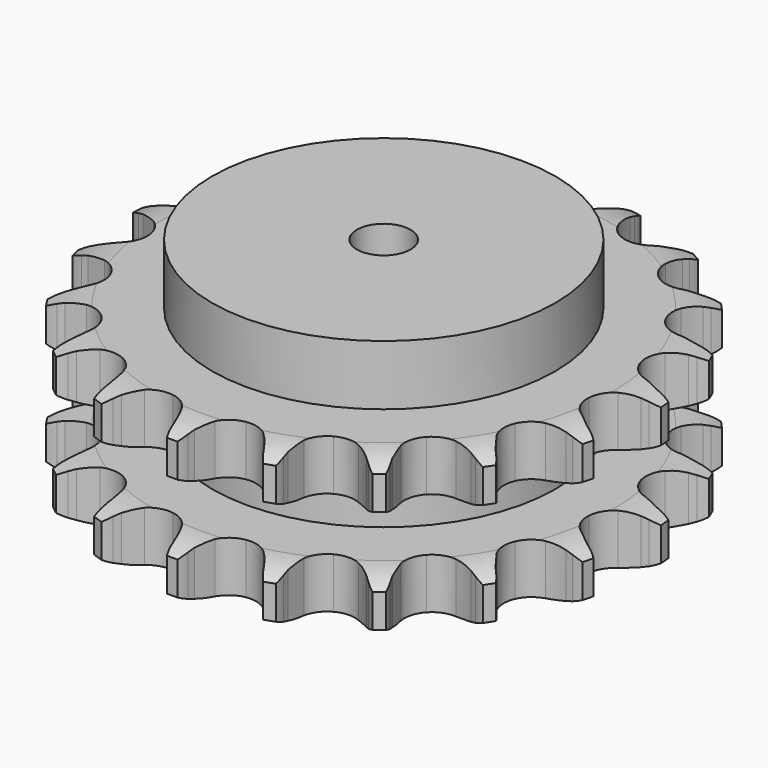
from build123d import *

# Parameters (mm, degrees)
PAD_DEPTH         = 72
SKETCH001_R       = 80
PAD001_DEPTH      = 100
SKETCH002_R       = 12.5
POCKET_DEPTH      = 0.001
POCKET_DEPTH_BACK = 100.001


with BuildPart() as part:
    # Sprocket → Pad (new body)
    with BuildSketch(Plane.XY):
        with BuildLine():
            ThreePointArc((-20.942046, 125.498803), (-17.925185, 122.108284), (-15.704793, 118.150136))
            Line((-15.704793, 118.150136), (-14.486924, 115.295608))
            ThreePointArc((-14.486924, 115.295608), (-12.522014, 111.417263), (-10.066041, 107.829698))
            ThreePointArc((-10.066041, 107.829698), (-5.595993, 104.225196), (0, 102.937319))
            ThreePointArc((0, 102.937319), (5.595993, 104.225196), (10.066041, 107.829698))
            ThreePointArc((10.066041, 107.829698), (12.522014, 111.417263), (14.486924, 115.295608))
            Line((14.486924, 115.295608), (15.704793, 118.150136))
            ThreePointArc((15.704793, 118.150136), (17.925185, 122.108284), (20.942046, 125.498803))
            ThreePointArc((20.942046, 125.498803), (22.694546, 121.312418), (23.509423, 116.847773))
            Line((23.509423, 116.847773), (23.734441, 113.75247))
            ThreePointArc((23.734441, 113.75247), (24.333589, 109.44626), (25.491611, 105.255625))
            ThreePointArc((25.491611, 105.255625), (28.549079, 100.395003), (33.423693, 97.359891))
            ThreePointArc((33.423693, 97.359891), (39.134652, 96.760971), (44.53288, 98.718749))
            Line((44.53288, 98.718749), (51.138405, 104.344678))
            ThreePointArc((51.138405, 104.344678), (52.150772, 105.521248), (53.21715, 106.649098))
            ThreePointArc((53.21715, 106.649098), (56.602444, 109.671822), (60.556743, 111.899061))
            ThreePointArc((60.556743, 111.899061), (60.854971, 107.37047), (60.176027, 102.883142))
            Line((60.176027, 102.883142), (59.38381, 99.882487))
            ThreePointArc((59.38381, 99.882487), (58.552271, 95.615056), (58.286851, 91.275473))
            ThreePointArc((58.286851, 91.275473), (59.600416, 85.685454), (63.22541, 81.232009))
            ThreePointArc((63.22541, 81.232009), (68.432465, 78.811194), (74.173891, 78.910092))
            Line((74.173891, 78.910092), (82.248246, 82.086382))
            ThreePointArc((82.248246, 82.086382), (83.587793, 82.870488), (84.962604, 83.590975))
            ThreePointArc((84.962604, 83.590975), (89.14595, 85.350717), (93.609177, 86.173318))
            ThreePointArc((93.609177, 86.173318), (92.420815, 81.793265), (90.321626, 77.769525))
            Line((90.321626, 77.769525), (88.598022, 75.188687))
            ThreePointArc((88.598022, 75.188687), (86.425905, 71.422477), (84.765806, 67.404206))
            ThreePointArc((84.765806, 67.404206), (84.193122, 61.690556), (86.175673, 56.301377))
            ThreePointArc((86.175673, 56.301377), (90.314558, 52.321001), (95.777011, 50.550303))
            Line((95.777011, 50.550303), (104.445214, 50.932754))
            ThreePointArc((104.445214, 50.932754), (105.966779, 51.239424), (107.501041, 51.474473))
            ThreePointArc((107.501041, 51.474473), (112.029109, 51.780537), (116.517605, 51.10936))
            ThreePointArc((116.517605, 51.10936), (113.97143, 47.35249), (110.679474, 44.228374))
            Line((110.679474, 44.228374), (108.211264, 42.347026))
            ThreePointArc((108.211264, 42.347026), (104.933952, 39.490165), (102.059071, 36.228648))
            ThreePointArc((102.059071, 36.228648), (99.662198, 31.01053), (99.787465, 25.269618))
            ThreePointArc((99.787465, 25.269618), (102.409668, 20.161016), (107.001204, 16.712603))
            Line((107.001204, 16.712603), (115.323923, 14.259771))
            ThreePointArc((115.323923, 14.259771), (116.86262, 14.055774), (118.390072, 13.779913))
            ThreePointArc((118.390072, 13.779913), (122.772175, 12.599133), (126.799542, 10.50691))
            ThreePointArc((126.799542, 10.50691), (123.171472, 7.780339), (119.043485, 5.894392))
            Line((119.043485, 5.894392), (116.098136, 4.916408))
            ThreePointArc((116.098136, 4.916408), (112.070776, 3.27848), (108.292651, 1.127154))
            ThreePointArc((108.292651, 1.127154), (104.331327, -3.029969), (102.585736, -8.500496))
            ThreePointArc((102.585736, -8.500496), (103.407101, -14.183728), (106.630157, -18.936166))
            Line((106.630157, -18.936166), (113.705494, -23.958479))
            ThreePointArc((113.705494, -23.958479), (115.094584, -24.651038), (116.449702, -25.407914))
            ThreePointArc((116.449702, -25.407914), (120.210972, -27.947583), (123.340781, -31.234128))
            ThreePointArc((123.340781, -31.234128), (119.023974, -32.634933), (114.507286, -33.078339))
            Line((114.507286, -33.078339), (111.403973, -33.04698))
            ThreePointArc((111.403973, -33.04698), (107.062993, -33.288478), (102.791043, -34.096485))
            ThreePointArc((102.791043, -34.096485), (97.694539, -36.742123), (94.267251, -41.34945))
            ThreePointArc((94.267251, -41.34945), (93.19877, -46.991445), (94.704078, -52.532908))
            Line((94.704078, -52.532908), (99.765312, -59.580456))
            ThreePointArc((99.765312, -59.580456), (100.854263, -60.686527), (101.890199, -61.842399))
            ThreePointArc((101.890199, -61.842399), (104.623045, -65.465745), (106.516132, -69.590462))
            ThreePointArc((106.516132, -69.590462), (101.978381, -69.513703), (97.562447, -68.466518))
            Line((97.562447, -68.466518), (94.637462, -67.429214))
            ThreePointArc((94.637462, -67.429214), (90.453274, -66.248114), (86.150431, -65.62524))
            ThreePointArc((86.150431, -65.62524), (80.471031, -66.472699), (75.733447, -69.717549))
            ThreePointArc((75.733447, -69.717549), (72.890906, -74.70691), (72.515343, -80.436894))
            Line((72.515343, -80.436894), (75.014009, -88.745967))
            ThreePointArc((75.014009, -88.745967), (75.684818, -90.145689), (76.289313, -91.575301))
            ThreePointArc((76.289313, -91.575301), (77.697587, -95.889677), (78.148808, -100.405591))
            ThreePointArc((78.148808, -100.405591), (73.881849, -98.859586), (70.045202, -96.435288))
            Line((70.045202, -96.435288), (67.615513, -94.504447))
            ThreePointArc((67.615513, -94.504447), (64.041538, -92.028738), (60.174082, -90.042483))
            ThreePointArc((60.174082, -90.042483), (54.527239, -88.999926), (48.992749, -90.53067))
            ThreePointArc((48.992749, -90.53067), (44.684182, -94.326722), (42.468445, -99.624294))
            Line((42.468445, -99.624294), (42.133775, -108.294474))
            ThreePointArc((42.133775, -108.294474), (42.313748, -109.836167), (42.421296, -111.384598))
            ThreePointArc((42.421296, -111.384598), (42.35239, -115.922475), (41.312848, -120.340216))
            ThreePointArc((41.312848, -120.340216), (37.779071, -117.492498), (34.937473, -113.953798))
            Line((34.937473, -113.953798), (33.266374, -111.338657))
            ThreePointArc((33.266374, -111.338657), (30.689909, -107.836621), (27.676938, -104.702225))
            ThreePointArc((27.676938, -104.702225), (22.674574, -101.88263), (16.942926, -101.533388))
            ThreePointArc((16.942926, -101.533388), (11.635233, -103.72477), (7.819432, -108.015857))
            Line((7.819432, -108.015857), (4.687692, -116.107595))
            ThreePointArc((4.687692, -116.107595), (4.357328, -117.624192), (3.956273, -119.123646))
            ThreePointArc((3.956273, -119.123646), (2.417655, -123.393274), (0, -127.234111))
            ThreePointArc((0, -127.234111), (-2.417655, -123.393274), (-3.956273, -119.123646))
            Line((-3.956273, -119.123646), (-4.687692, -116.107595))
            ThreePointArc((-4.687692, -116.107595), (-5.987449, -111.958732), (-7.819432, -108.015857))
            ThreePointArc((-7.819432, -108.015857), (-11.635233, -103.72477), (-16.942926, -101.533388))
            ThreePointArc((-16.942926, -101.533388), (-22.674574, -101.88263), (-27.676938, -104.702225))
            Line((-27.676938, -104.702225), (-33.266374, -111.338657))
            ThreePointArc((-33.266374, -111.338657), (-34.071277, -112.665811), (-34.937473, -113.953798))
            ThreePointArc((-34.937473, -113.953798), (-37.779071, -117.492498), (-41.312848, -120.340216))
            ThreePointArc((-41.312848, -120.340216), (-42.35239, -115.922475), (-42.421296, -111.384598))
            Line((-42.421296, -111.384598), (-42.133775, -108.294474))
            ThreePointArc((-42.133775, -108.294474), (-42.015973, -103.948378), (-42.468445, -99.624294))
            ThreePointArc((-42.468445, -99.624294), (-44.684182, -94.326722), (-48.992749, -90.53067))
            ThreePointArc((-48.992749, -90.53067), (-54.527239, -88.999926), (-60.174082, -90.042483))
            Line((-60.174082, -90.042483), (-67.615513, -94.504447))
            ThreePointArc((-67.615513, -94.504447), (-68.80773, -95.498341), (-70.045202, -96.435288))
            ThreePointArc((-70.045202, -96.435288), (-73.881849, -98.859586), (-78.148808, -100.405591))
            ThreePointArc((-78.148808, -100.405591), (-77.697587, -95.889677), (-76.289313, -91.575301))
            Line((-76.289313, -91.575301), (-75.014009, -88.745967))
            ThreePointArc((-75.014009, -88.745967), (-73.491415, -84.673604), (-72.515343, -80.436894))
            ThreePointArc((-72.515343, -80.436894), (-72.890906, -74.70691), (-75.733447, -69.717549))
            ThreePointArc((-75.733447, -69.717549), (-80.471031, -66.472699), (-86.150431, -65.62524))
            Line((-86.150431, -65.62524), (-94.637462, -67.429214))
            ThreePointArc((-94.637462, -67.429214), (-96.087798, -67.982144), (-97.562447, -68.466518))
            ThreePointArc((-97.562447, -68.466518), (-101.978381, -69.513703), (-106.516132, -69.590462))
            ThreePointArc((-106.516132, -69.590462), (-104.623045, -65.465745), (-101.890199, -61.842399))
            Line((-101.890199, -61.842399), (-99.765312, -59.580456))
            ThreePointArc((-99.765312, -59.580456), (-97.002922, -56.223131), (-94.704078, -52.532908))
            ThreePointArc((-94.704078, -52.532908), (-93.19877, -46.991445), (-94.267251, -41.34945))
            ThreePointArc((-94.267251, -41.34945), (-97.694539, -36.742123), (-102.791043, -34.096485))
            Line((-102.791043, -34.096485), (-111.403973, -33.04698))
            ThreePointArc((-111.403973, -33.04698), (-112.955262, -33.099027), (-114.507286, -33.078339))
            ThreePointArc((-114.507286, -33.078339), (-119.023974, -32.634933), (-123.340781, -31.234128))
            ThreePointArc((-123.340781, -31.234128), (-120.210972, -27.947583), (-116.449702, -25.407914))
            Line((-116.449702, -25.407914), (-113.705494, -23.958479))
            ThreePointArc((-113.705494, -23.958479), (-110.002657, -21.68001), (-106.630157, -18.936166))
            ThreePointArc((-106.630157, -18.936166), (-103.407101, -14.183728), (-102.585736, -8.500496))
            ThreePointArc((-102.585736, -8.500496), (-104.331327, -3.029969), (-108.292651, 1.127154))
            Line((-108.292651, 1.127154), (-116.098136, 4.916408))
            ThreePointArc((-116.098136, 4.916408), (-117.582271, 5.370884), (-119.043485, 5.894392))
            ThreePointArc((-119.043485, 5.894392), (-123.171472, 7.780339), (-126.799542, 10.50691))
            ThreePointArc((-126.799542, 10.50691), (-122.772175, 12.599133), (-118.390072, 13.779913))
            Line((-118.390072, 13.779913), (-115.323923, 14.259771))
            ThreePointArc((-115.323923, 14.259771), (-111.081897, 15.212477), (-107.001204, 16.712603))
            ThreePointArc((-107.001204, 16.712603), (-102.409668, 20.161016), (-99.787465, 25.269618))
            ThreePointArc((-99.787465, 25.269618), (-99.662198, 31.01053), (-102.059071, 36.228648))
            Line((-102.059071, 36.228648), (-108.211264, 42.347026))
            ThreePointArc((-108.211264, 42.347026), (-109.467416, 43.258775), (-110.679474, 44.228374))
            ThreePointArc((-110.679474, 44.228374), (-113.97143, 47.35249), (-116.517605, 51.10936))
            ThreePointArc((-116.517605, 51.10936), (-112.029109, 51.780537), (-107.501041, 51.474473))
            Line((-107.501041, 51.474473), (-104.445214, 50.932754))
            ThreePointArc((-104.445214, 50.932754), (-100.12369, 50.456456), (-95.777011, 50.550303))
            ThreePointArc((-95.777011, 50.550303), (-90.314558, 52.321001), (-86.175673, 56.301377))
            ThreePointArc((-86.175673, 56.301377), (-84.193122, 61.690556), (-84.765806, 67.404206))
            Line((-84.765806, 67.404206), (-88.598022, 75.188687))
            ThreePointArc((-88.598022, 75.188687), (-89.490068, 76.458908), (-90.321626, 77.769525))
            ThreePointArc((-90.321626, 77.769525), (-92.420815, 81.793265), (-93.609177, 86.173318))
            ThreePointArc((-93.609177, 86.173318), (-89.14595, 85.350717), (-84.962604, 83.590975))
            Line((-84.962604, 83.590975), (-82.248246, 82.086382))
            ThreePointArc((-82.248246, 82.086382), (-78.315528, 80.232696), (-74.173891, 78.910092))
            ThreePointArc((-74.173891, 78.910092), (-68.432465, 78.811194), (-63.22541, 81.232009))
            ThreePointArc((-63.22541, 81.232009), (-59.600416, 85.685454), (-58.286851, 91.275473))
            Line((-58.286851, 91.275473), (-59.38381, 99.882487))
            ThreePointArc((-59.38381, 99.882487), (-59.815083, 101.373531), (-60.176027, 102.883142))
            ThreePointArc((-60.176027, 102.883142), (-60.854971, 107.37047), (-60.556743, 111.899061))
            ThreePointArc((-60.556743, 111.899061), (-56.602444, 109.671822), (-53.21715, 106.649098))
            Line((-53.21715, 106.649098), (-51.138405, 104.344678))
            ThreePointArc((-51.138405, 104.344678), (-48.020663, 101.314477), (-44.53288, 98.718749))
            ThreePointArc((-44.53288, 98.718749), (-39.134652, 96.760971), (-33.423693, 97.359891))
            ThreePointArc((-33.423693, 97.359891), (-28.549079, 100.395003), (-25.491611, 105.255625))
            Line((-25.491611, 105.255625), (-23.734441, 113.75247))
            ThreePointArc((-23.734441, 113.75247), (-23.658205, 115.302759), (-23.509423, 116.847773))
            ThreePointArc((-23.509423, 116.847773), (-22.694546, 121.312418), (-20.942046, 125.498803))
        make_face()
    extrude(amount=PAD_DEPTH)

    # Sketch → Groove (revolve, cut)
    with BuildSketch(Plane.XZ):
        with BuildLine():
            ThreePointArc((106.279437, 0), (114.997235, 1.013516), (123.25, 4))
            Line((123.25, 4), (123.25, 19.6))
            ThreePointArc((123.25, 19.6), (114.997235, 22.586484), (106.279437, 23.6))
            Line((80, 23.6), (106.279437, 23.6))
            Line((80, 48.4), (80, 23.6))
            Line((106.279437, 48.4), (80, 48.4))
            ThreePointArc((106.279437, 48.4), (114.997235, 49.413516), (123.25, 52.4))
            Line((123.25, 52.4), (123.25, 68))
            ThreePointArc((123.25, 68), (114.997235, 70.986484), (106.279437, 72))
            Line((106.279437, 72), (133.25, 72))
            Line((133.25, 72), (133.25, 0))
            Line((106.279437, 0), (133.25, 0))
        make_face()
    revolve(axis=Axis((0, 0, 0), (0, 0, 1)), mode=Mode.SUBTRACT)

    # Sketch001 → Pad001 (join)
    with BuildSketch(Plane.XY):
        Circle(SKETCH001_R)
    extrude(amount=PAD001_DEPTH)

    # Sketch002 → Pocket (cut, two sides)
    with BuildSketch(Plane.XY) as pocket_sk:
        Circle(SKETCH002_R)
    extrude(amount=-POCKET_DEPTH, mode=Mode.SUBTRACT)
    extrude(pocket_sk.sketch, amount=POCKET_DEPTH_BACK, mode=Mode.SUBTRACT)


solid = part.part
